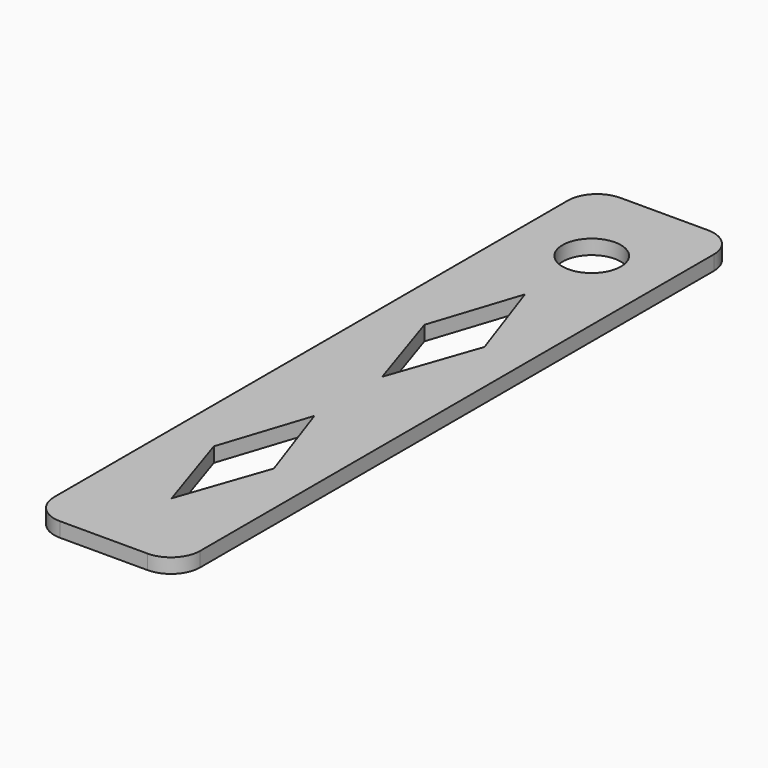
from build123d import *

# Parameters (mm, degrees)
F0_R     = 12.7
F1_DEPTH = 6.35


with BuildPart() as f1:
    # F0 (on Top) → F1 (new body)
    with BuildSketch(Plane.XY):
        with BuildLine():
            ThreePointArc((0, 12.7), (3.719744, 3.719744), (12.7, 0))
            Line((12.7, 0), (50.8, 0))
            ThreePointArc((50.8, 0), (59.780256, 3.719744), (63.5, 12.7))
            Line((63.5, 12.7), (63.5, 292.1))
            ThreePointArc((63.5, 292.1), (59.780256, 301.080256), (50.8, 304.8))
            Line((50.8, 304.8), (12.7, 304.8))
            ThreePointArc((12.7, 304.8), (3.719744, 301.080256), (0, 292.1))
            Line((0, 292.1), (0, 12.7))
        make_face()
        Polygon((19.05, 75.692), (31.75, 114.540583), (45.188366, 75.692), (31.75, 36.843417), align=None, mode=Mode.SUBTRACT)
        Polygon((19.05, 190.246), (31.75, 229.094583), (45.188366, 190.246), (31.75, 151.397417), align=None, mode=Mode.SUBTRACT)
        with Locations((31.75, 265.397549)):
            Circle(F0_R, mode=Mode.SUBTRACT)
    extrude(amount=F1_DEPTH)


solid = f1.part
